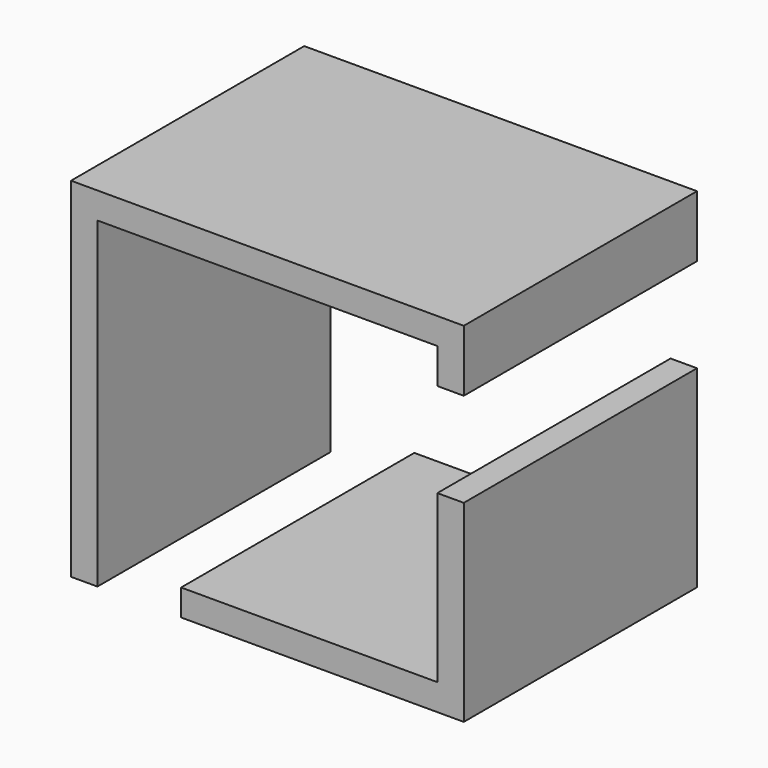
from build123d import *

# Parameters (mm, degrees)
F1_DEPTH = 3310


with BuildPart() as f1:
    # F0 (on Front) → F1 (new body)
    with BuildSketch(Plane.XZ):
        Polygon((0, -3360), (0, 0), (3860, 0), (3860, -400), (4160, -400), (4160, 300), (-300, 300), (-300, -3660), (0, -3660), align=None)
        Polygon((3860, -3360), (950, -3360), (950, -3660), (4160, -3660), (4160, -1470), (3860, -1470), align=None)
    extrude(amount=F1_DEPTH)


solid = f1.part
